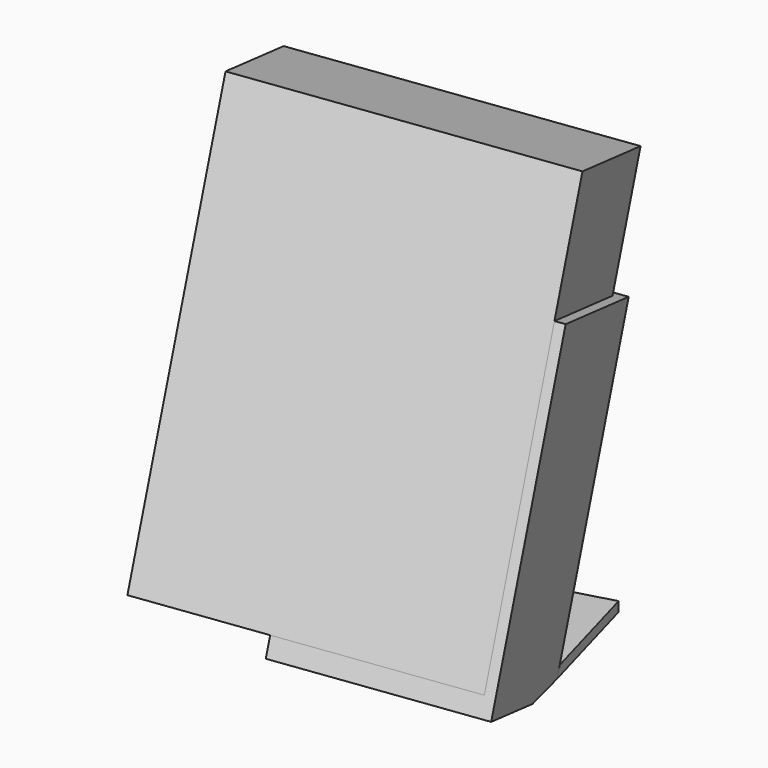
from build123d import *

# Parameters (mm, degrees)
F2_W      = 63.5
F2_H      = 88.9
F3_DEPTH  = 25
F5_W      = 38.1
F5_H      = 63.5
F6_DEPTH  = 2.1
F7_DEPTH  = 25
F10_DEPTH = 25
F12_DEPTH = 2


with BuildPart() as f3:
    # F2 (on face) → F3 (new body)
    with BuildSketch(Plane(origin=(0, 0, 0), x_dir=(-0.9659258263, -0.2480301337, 0.0739482986), z_dir=(-0.2588190451, 0.9256610609, -0.2759788075))):
        with Locations((-31.75, 44.45)):
            Rectangle(F2_W, F2_H)
    extrude(amount=-F3_DEPTH)


with BuildPart() as f6:
    # F5 (on face) → F6 (new body)
    with BuildSketch(Plane(origin=(0, 0, 0), x_dir=(-0.9659258263, -0.2480301337, 0.0739482986), z_dir=(-0.2588190451, 0.9256610609, -0.2759788075))):
        with Locations((-44.45, 31.75)):
            Rectangle(F5_W, F5_H)
        Polygon((-63.5, 0), (-63.5, 63.5), (-65.5, 63.5), (-65.5, -4), (-25.4, -4), (-25.4, 0), align=None)
        Polygon((-63.5, 0), (-63.5, 63.5), (-65.5, 63.5), (-65.5, -4), (-25.4, -4), (-25.4, 0), align=None)
    extrude(amount=F6_DEPTH)

    # F5 (on face) → F7 (join)
    with BuildSketch(Plane(origin=(0, 0, 0), x_dir=(-0.9659258263, -0.2480301337, 0.0739482986), z_dir=(-0.2588190451, 0.9256610609, -0.2759788075))):
        Polygon((-63.5, 0), (-63.5, 63.5), (-65.5, 63.5), (-65.5, -4), (-25.4, -4), (-25.4, 0), align=None)
    extrude(amount=-F7_DEPTH)

    # F9 (on offset) → F10 (cut)
    with BuildSketch(Plane.XY.offset(-6.6957169611)):
        Polygon((62.7246216272, 17.0470048449), (69.7386177495, -8.038409906), (62.7246216272, 36.3327191306), (23.990995993, 26.3867107677), (23.990995993, 7.100996482), align=None)
        Polygon((23.990995993, 7.100996482), (31.0049921153, -17.9844182688), (69.7386177495, -8.038409906), (62.7246216272, 17.0470048449), align=None)
    extrude(amount=-F10_DEPTH, mode=Mode.SUBTRACT)

    # F11 (on face) → F12 (join)
    with BuildSketch(Plane(origin=(0, 0, -6.6957169611), x_dir=(1, 0, 0), z_dir=(0, 0, -1))):
        Polygon((55.8849921191, -42.2722575994), (62.7246216272, -17.8104615044), (29.2761528743, -8.4581174248), (37.5386450479, -37.1425354683), align=None)
    extrude(amount=-F12_DEPTH)


solid = Compound([f3.part, f6.part])
